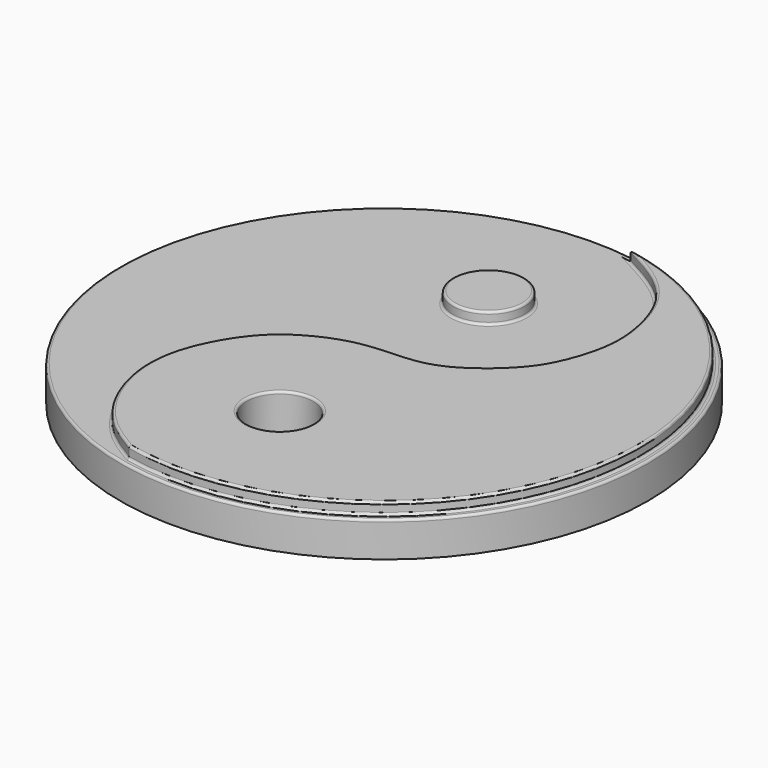
from build123d import *

# Parameters (mm, degrees)
F0_R     = 22.5
F0_R_2   = 3.0580895054
F1_DEPTH = 3
F0_R_3   = 2.8434327744
F2_DEPTH = 4
F3_R     = 0.2


with BuildPart() as f1:
    # F0 (on Top) → F1 (new body)
    with BuildSketch(Plane.XY):
        Circle(F0_R)
        with BuildLine():
            ThreePointArc((3.78963691, 21.544239998), (16.754311869, 14.0644466225), (21.875, 0))
            ThreePointArc((21.875, 0), (13.7333487735, -17.0267658839), (-4.6311263055, -21.3791555994))
            ThreePointArc((-4.6311263055, -21.3791555994), (-21.4658216359, 4.2111906271), (3.78963691, 21.544239998))
        make_face(mode=Mode.SUBTRACT)
        with BuildLine():
            add(Edge.make_bspline(
                [(-4.6311263055, -21.3791555994), (-5.6624461917, -20.761961642), (-7.8306790688, -19.430650922), (-10.5716814976, -15.6350084894), (-11.7438422587, -9.6053296246), (-8.7850572973, -3.9201387309), (-5.8853881133, -1.5005135568), (-1.7083525765, 0.2497461836), (2.9775147435, -0.0480654662), (6.210384611, 1.6478509075), (8.8981903352, 4.0963043034), (10.1738387215, 6.316952936), (11.0840920319, 9.1908490371), (11.2434544747, 11.7162366696), (10.6950005291, 14.5894775149), (9.5258763683, 17.3421657188), (7.31381535, 19.6443719116), (5.0143215498, 20.8842187397), (3.78963691, 21.544239998)],
                knots=[0, 0, 0, 0, 0.0617182324, 0.1304286287, 0.2091930717, 0.2888297958, 0.3511598277, 0.4186517311, 0.4879114967, 0.5489898704, 0.6096819825, 0.6614108731, 0.7166927274, 0.7680907189, 0.822865763, 0.8782565019, 0.9351579188, 1, 1, 1, 1], degree=3))
            ThreePointArc((3.78963691, 21.544239998), (-21.4658216359, 4.2111906271), (-4.6311263055, -21.3791555994))
        make_face()
        with Locations((0.0603093565, 11.0677070916)):
            Circle(F0_R_2, mode=Mode.SUBTRACT)
    extrude(amount=F1_DEPTH)

    # F0 (on Top) → F2 (join)
    with BuildSketch(Plane.XY):
        with BuildLine():
            ThreePointArc((-4.6311263055, -21.3791555994), (13.7333487735, -17.0267658839), (21.875, 0))
            ThreePointArc((21.875, 0), (16.754311869, 14.0644466225), (3.78963691, 21.544239998))
            add(Edge.make_bspline(
                [(-4.6311263055, -21.3791555994), (-5.6624461917, -20.761961642), (-7.8306790688, -19.430650922), (-10.5716814976, -15.6350084894), (-11.7438422587, -9.6053296246), (-8.7850572973, -3.9201387309), (-5.8853881133, -1.5005135568), (-1.7083525765, 0.2497461836), (2.9775147435, -0.0480654662), (6.210384611, 1.6478509075), (8.8981903352, 4.0963043034), (10.1738387215, 6.316952936), (11.0840920319, 9.1908490371), (11.2434544747, 11.7162366696), (10.6950005291, 14.5894775149), (9.5258763683, 17.3421657188), (7.31381535, 19.6443719116), (5.0143215498, 20.8842187397), (3.78963691, 21.544239998)],
                knots=[0, 0, 0, 0, 0.0617182324, 0.1304286287, 0.2091930717, 0.2888297958, 0.3511598277, 0.4186517311, 0.4879114967, 0.5489898704, 0.6096819825, 0.6614108731, 0.7166927274, 0.7680907189, 0.822865763, 0.8782565019, 0.9351579188, 1, 1, 1, 1], degree=3))
        make_face()
        with Locations((0.0696922399, -11.1959171481)):
            Circle(F0_R_3, mode=Mode.SUBTRACT)
        with Locations((0.0603093565, 11.0677070916)):
            Circle(F0_R_2)
    extrude(amount=F2_DEPTH)

    # F3
    f3_edges = [f1.edges().sort_by_distance(p)[0] for p in [
        (-2.99778, 11.067707, 4),
        (-22.5, 0, 3),
        (21.465822, -4.211191, 3),
        (0.465623, 0.086806, 3),
        (-2.99778, 11.067707, 3),
        (21.465822, -4.211191, 4),
        (0.465623, 0.086806, 4),
        (-2.773741, -11.195917, 4),
    ]]
    fillet(f3_edges, radius=F3_R)


solid = f1.part
